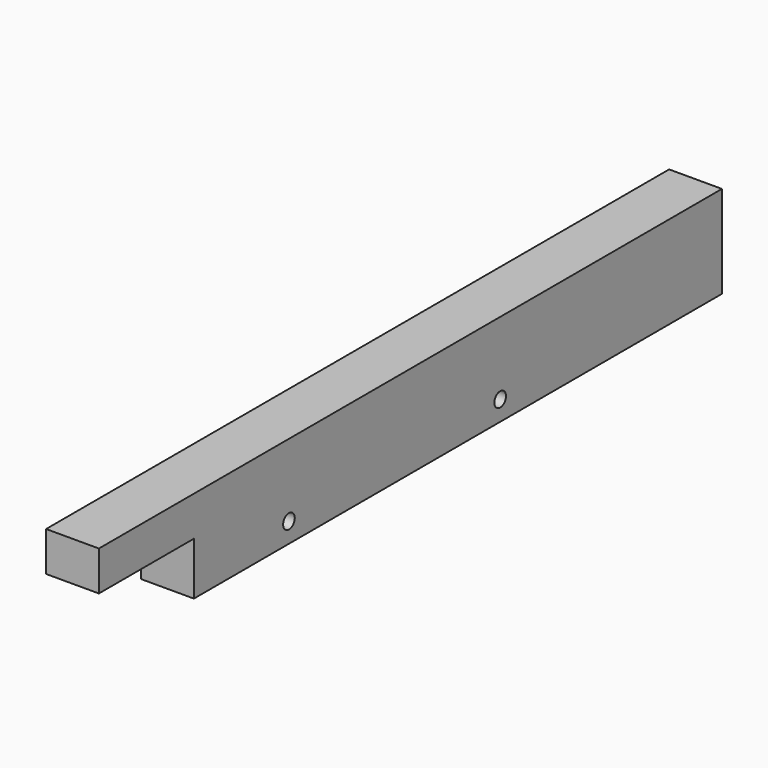
from build123d import *

# Parameters (mm, degrees)
F0_W     = 40
F0_H     = 70
F1_DEPTH = 500
F3_D     = 11
F3_DEPTH = 50
F4_W     = 40
F4_H     = 30
F5_DEPTH = 90


with BuildPart() as f1:
    # F0 (on Front) → F1 (new body)
    with BuildSketch(Plane.XZ):
        with Locations((20, 35)):
            Rectangle(F0_W, F0_H)
    extrude(amount=F1_DEPTH)

    # F3
    with Locations(Plane.YZ.offset(40)):
        with Locations((-410, 15), (-210, 15)):
            Hole(F3_D / 2, depth=F3_DEPTH)

    # F4 (on face) → F5 (join)
    with BuildSketch(Plane.XZ.offset(500)):
        with Locations((20, 55)):
            Rectangle(F4_W, F4_H)
    extrude(amount=F5_DEPTH)


solid = f1.part
